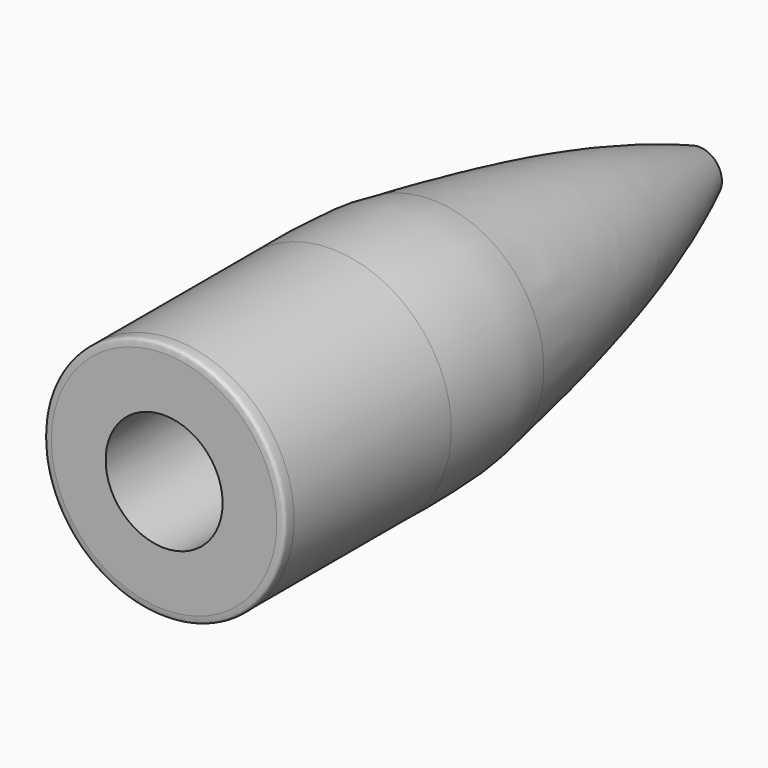
from build123d import *

# Parameters (mm, degrees)
F2_R     = 3.175
F3_DEPTH = 12.7


with BuildPart() as f1:
    # F0 (on Top) → F1 (revolve)
    with BuildSketch(Plane.XY):
        with BuildLine():
            Line((-21.446696, 26.1417), (-15.325296, 26.1417))
            Line((-15.325296, 26.1417), (-15.325296, 62.708844))
            Line((-15.325296, 62.708844), (-15.386309, 62.708844))
            add(Edge.make_bspline(
                [(-15.386309, 62.708844), (-16.229223, 62.783882), (-16.416743, 62.574521), (-16.57307, 62.435567)],
                knots=[0, 0, 0, 0, 1.217818, 1.217818, 1.217818, 1.217818], degree=3))
            add(Edge.make_bspline(
                [(-16.57307, 62.435567), (-19.019498, 56.884464), (-20.28095, 50.98832), (-21.438915, 44.274069)],
                knots=[0, 0, 0, 0, 18.802034, 18.802034, 18.802034, 18.802034], degree=3))
            add(Edge.make_bspline(
                [(-21.847537, 37.48263), (-21.870386, 39.438162), (-21.89474, 42.361394), (-21.438915, 44.274069)],
                knots=[0, 0, 0, 0, 6.803721, 6.803721, 6.803721, 6.803721], degree=3))
            Line((-21.847537, 37.48263), (-21.847537, 26.822774))
            add(Edge.make_bspline(
                [(-21.847537, 26.822774), (-21.847323, 26.284894), (-21.941996, 26.1417), (-21.446696, 26.1417)],
                knots=[0, 0, 0, 0, 0.790275, 0.790275, 0.790275, 0.790275], degree=3))
        make_face()
    revolve(axis=Axis((-15.325296, 44.425272, 0), (0, -1, 0)))

    # F2 (on face) → F3 (cut)
    with BuildSketch(Plane.XZ.offset(-26.1417)):
        with Locations((-15.325296, 0)):
            Circle(F2_R)
    extrude(amount=-F3_DEPTH, mode=Mode.SUBTRACT)


solid = f1.part
